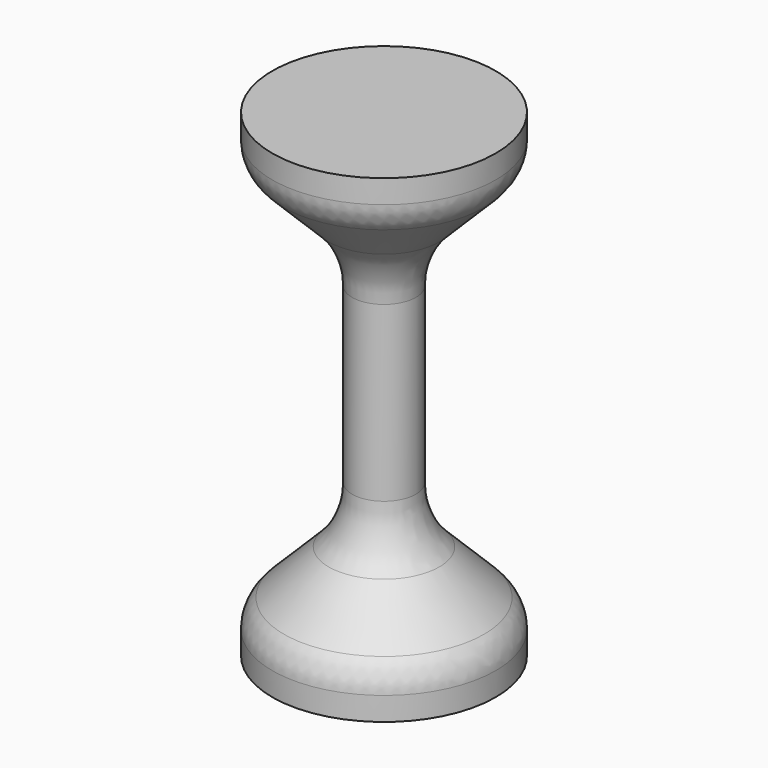
from build123d import *

# Parameters (mm, degrees)
F2_R = 10
F3_R = 5


with BuildPart() as f1:
    # F0 (on Front) → F1 (revolve)
    with BuildSketch(Plane.XZ):
        Polygon((14, 30), (0, 30), (0, -30), (14, -30), (14, -25), (4, -15), (4, 0), (4, 15), (14, 25), align=None)
    revolve(axis=Axis((0, 0, 0), (0, 0, -1)))

    # F2
    f2_edges = [f1.edges().sort_by_distance(p)[0] for p in [
        (-4, 0, 15),
        (-4, 0, -15),
    ]]
    fillet(f2_edges, radius=F2_R)

    # F3
    f3_edges = [f1.edges().sort_by_distance(p)[0] for p in [
        (-14, 0, 25),
        (-14, 0, -25),
    ]]
    fillet(f3_edges, radius=F3_R)


solid = f1.part
